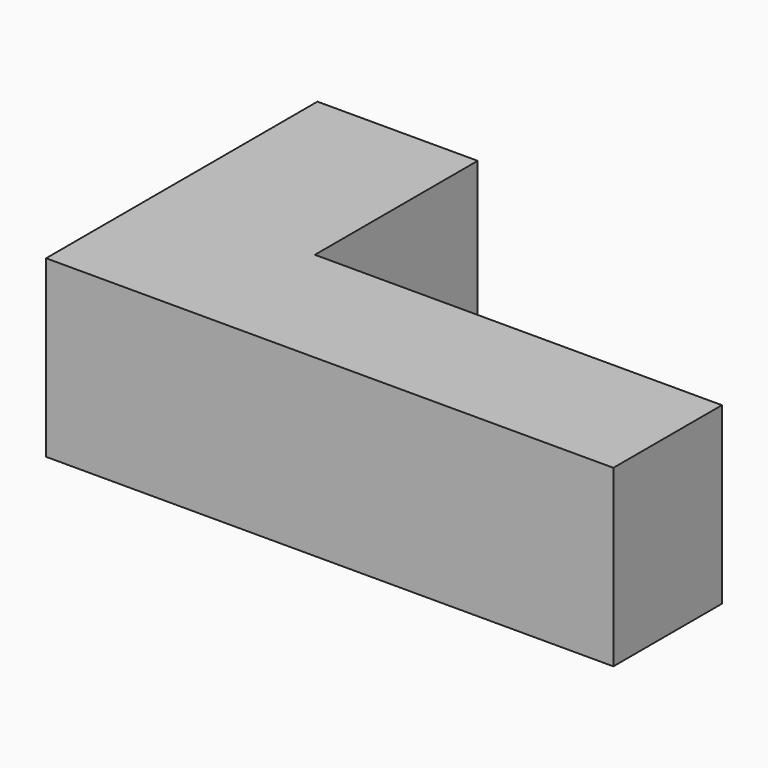
from build123d import *

# Parameters (mm, degrees)
F0_W      = 34.599658
F0_H      = 65.455198
F1_DEPTH  = 50.8
F1_FACE_W = 50.8
F1_FACE_H = 65.455198
F2_DEPTH  = 152.4
F3_DEPTH  = 76.2
F3_FACE_W = 127
F3_FACE_H = 65.455198
F4_DEPTH  = 25.4


with BuildPart() as f1:
    # F0 (on Front) → F1 (new body)
    with BuildSketch(Plane.XZ):
        with Locations((17.299829, 32.727599)):
            Rectangle(F0_W, F0_H)
        with Locations((17.299829, 32.727599)):
            Rectangle(F0_W, F0_H)
    extrude(amount=F1_DEPTH)

    # F1_face (on face) → F2 (join)
    with BuildSketch(Plane(origin=(34.599658, -25.4, 32.727599), x_dir=(0, 1, 0), z_dir=(1, 0, 0))):
        Rectangle(F1_FACE_W, F1_FACE_H)
    extrude(amount=F2_DEPTH)

    # F0 (on Front) → F3 (join)
    with BuildSketch(Plane.XZ):
        with Locations((17.299829, 32.727599)):
            Rectangle(F0_W, F0_H)
    extrude(amount=-F3_DEPTH)

    # F3_face (on face) → F4 (join)
    with BuildSketch(Plane(origin=(0, 12.7, 32.727599), x_dir=(0, -1, 0), z_dir=(-1, 0, 0))):
        Rectangle(F3_FACE_W, F3_FACE_H)
    extrude(amount=F4_DEPTH)


solid = f1.part
